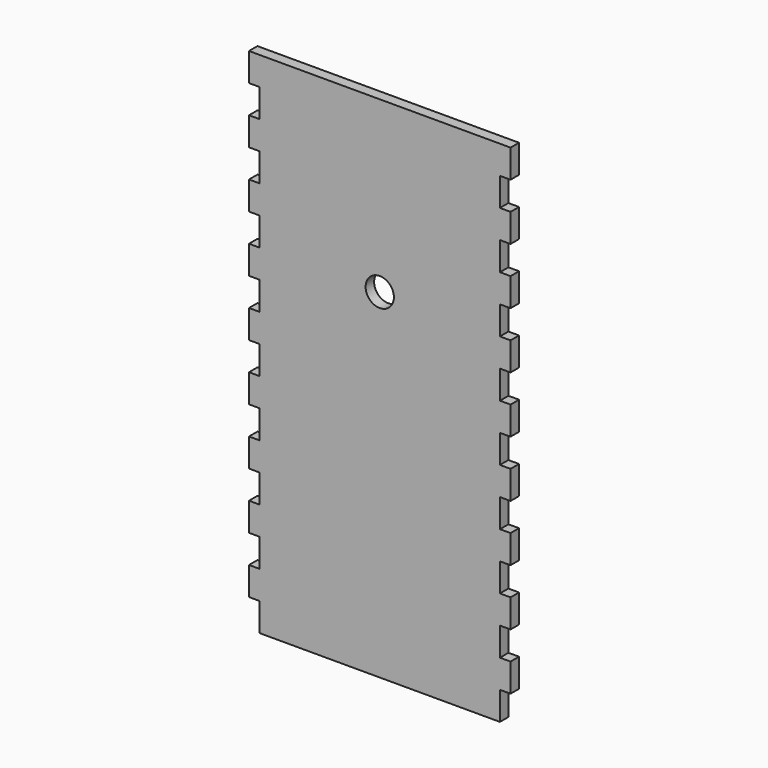
from build123d import *

# Parameters (mm, degrees)
F0_R     = 25.4
F1_DEPTH = 19.05


with BuildPart() as f1:
    # F0 (on Front) → F1 (new body)
    with BuildSketch(Plane.XZ):
        Polygon((-296.68365, -45.594117), (-296.68365, -96.394117), (135.11635, -96.394117), (135.11635, -45.594117), (154.16635, -45.594117), (154.16635, 5.205883), (135.11635, 5.205883), (135.11635, 56.005883), (154.16635, 56.005883), (154.16635, 106.805883), (135.11635, 106.805883), (135.11635, 157.605883), (154.16635, 157.605883), (154.16635, 208.405883), (135.11635, 208.405883), (135.11635, 259.205883), (154.16635, 259.205883), (154.16635, 310.005883), (135.11635, 310.005883), (135.11635, 360.805883), (154.16635, 360.805883), (154.16635, 411.605883), (135.11635, 411.605883), (135.11635, 462.405883), (154.16635, 462.405883), (154.16635, 513.205883), (135.11635, 513.205883), (135.11635, 564.005883), (154.16635, 564.005883), (154.16635, 614.805883), (135.11635, 614.805883), (135.11635, 665.605883), (154.16635, 665.605883), (154.16635, 716.405883), (135.11635, 716.405883), (135.11635, 767.205883), (154.16635, 767.205883), (154.16635, 818.005883), (135.11635, 818.005883), (-296.68365, 818.005883), (-315.73365, 818.005883), (-315.73365, 767.205883), (-296.68365, 767.205883), (-296.68365, 716.405883), (-315.73365, 716.405883), (-315.73365, 665.605883), (-296.68365, 665.605883), (-296.68365, 614.805883), (-315.73365, 614.805883), (-315.73365, 564.005883), (-296.68365, 564.005883), (-296.68365, 513.205883), (-315.73365, 513.205883), (-315.73365, 462.405883), (-296.68365, 462.405883), (-296.68365, 411.605883), (-315.73365, 411.605883), (-315.73365, 360.805883), (-296.68365, 360.805883), (-296.68365, 310.005883), (-315.73365, 310.005883), (-315.73365, 259.205883), (-296.68365, 259.205883), (-296.68365, 208.405883), (-315.73365, 208.405883), (-315.73365, 157.605883), (-296.68365, 157.605883), (-296.68365, 106.805883), (-315.73365, 106.805883), (-315.73365, 56.005883), (-296.68365, 56.005883), (-296.68365, 5.205883), (-315.73365, 5.205883), (-315.73365, -45.594117), align=None)
        with Locations((-80.78365, 513.205883)):
            Circle(F0_R, mode=Mode.SUBTRACT)
    extrude(amount=F1_DEPTH)


solid = f1.part
